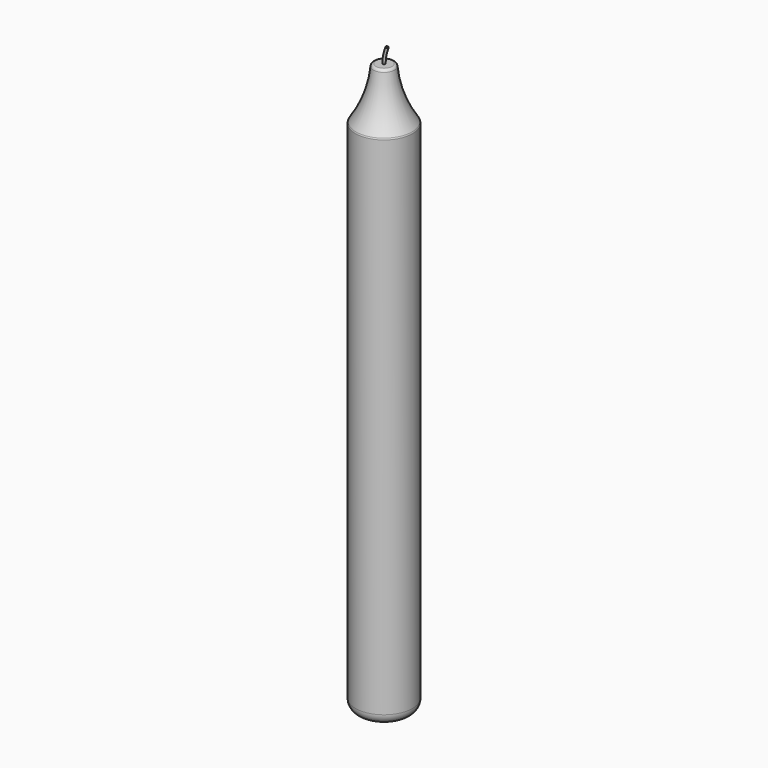
from build123d import *

# Parameters (mm, degrees)
F3_R = 0.5
F5_R = 1
F6_R = 0.1
F7_R = 4


with BuildPart() as f1:
    # F0 (on Front) → F1 (revolve)
    with BuildSketch(Plane.XZ):
        with BuildLine():
            Line((0, 220), (0, 0))
            Line((0, 0), (11, 0))
            Line((11, 0), (11, 200))
            ThreePointArc((11, 200), (6.1515684949, 209.5280489732), (4, 220))
            Line((4, 220), (0, 220))
        make_face()
    revolve(axis=Axis((0, 0, 110), (0, 0, -1)))

    # F5
    f5_edges = [f1.edges().sort_by_distance(p)[0] for p in [
        (-4, 0, 220),
        (-11, 0, 200),
    ]]
    fillet(f5_edges, radius=F5_R)

    # F7
    f7_edges = [f1.edges().sort_by_distance(p)[0] for p in [
        (-11, 0, 0),
    ]]
    fillet(f7_edges, radius=F7_R)


with BuildPart() as f4:
    # F4: sweep along a path in F2
    with BuildLine(Plane.XZ) as f4_path:
        ThreePointArc((1.2522729151, 226), (0.316405306, 223.0646446553), (0, 220))
    # F3 (on face) → F4 (sweep)
    with BuildSketch(Plane.XY.offset(220)):
        Circle(F3_R)
    sweep(path=f4_path.line)

    # F6
    f6_edges = [f4.edges().sort_by_distance(p)[0] for p in [
        (0.794015, 0, 226.2),
    ]]
    fillet(f6_edges, radius=F6_R)


solid = Compound([f1.part, f4.part])
